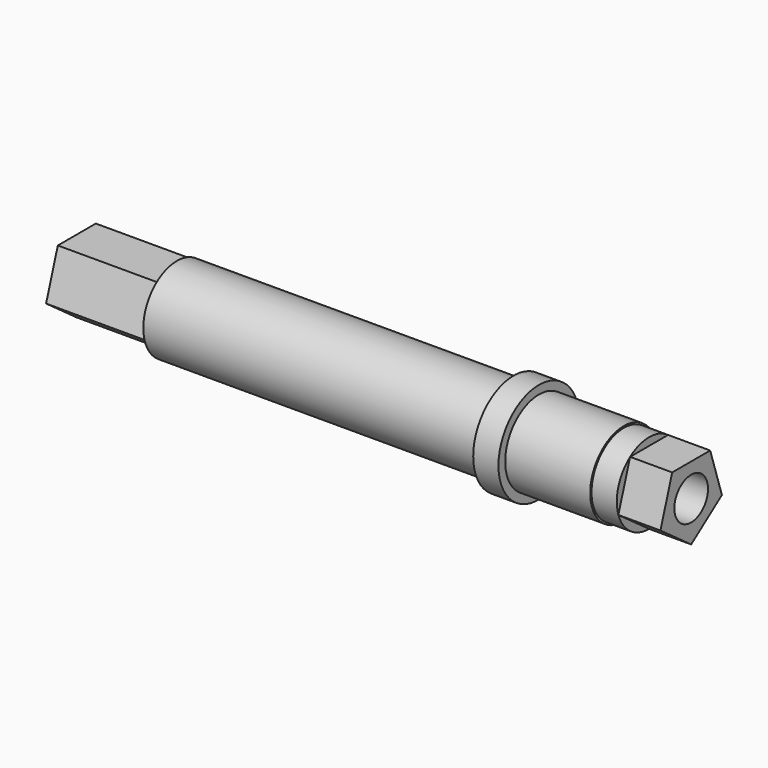
from build123d import *

# Parameters (mm, degrees)
F0_R          = 5
F1_DEPTH      = 10.1
F2_R          = 4.8
F3_DEPTH      = 3
F5_DEPTH      = 5
F5_DEPTH_BACK = 68
F6_R          = 6
F7_DEPTH      = 3
F8_R          = 5
F9_DEPTH      = 40
F10_R         = 2.5
F11_DEPTH     = 80


with BuildPart() as f1:
    # F0 (on Right) → F1 (new body)
    with BuildSketch(Plane.YZ):
        Circle(F0_R)
    extrude(amount=-F1_DEPTH)

    # F2 (on face) → F3 (join)
    with BuildSketch(Plane.YZ):
        Circle(F2_R)
    extrude(amount=F3_DEPTH)

    # F4 (on face) → F5 (join, two sides)
    with BuildSketch(Plane.YZ.offset(3)) as f5_sk:
        Polygon((-4.565071, -1.483282), (0, -4.8), (4.565071, -1.483282), (2.821369, 3.883282), (-2.821369, 3.883282), align=None)
    extrude(amount=F5_DEPTH)
    extrude(f5_sk.sketch, amount=-F5_DEPTH_BACK)

    # F6 (on face) → F7 (join)
    with BuildSketch(Plane(origin=(-10.1, 0, 0), x_dir=(0, -1, 0), z_dir=(-1, 0, 0))):
        Circle(F6_R)
    extrude(amount=F7_DEPTH)

    # F8 (on face) → F9 (join)
    with BuildSketch(Plane(origin=(-13.1, 0, 0), x_dir=(0, -1, 0), z_dir=(-1, 0, 0))):
        Circle(F8_R)
    extrude(amount=F9_DEPTH)

    # F10 (on face) → F11 (cut)
    with BuildSketch(Plane.YZ.offset(8)):
        Circle(F10_R)
    extrude(amount=-F11_DEPTH, mode=Mode.SUBTRACT)


solid = f1.part
